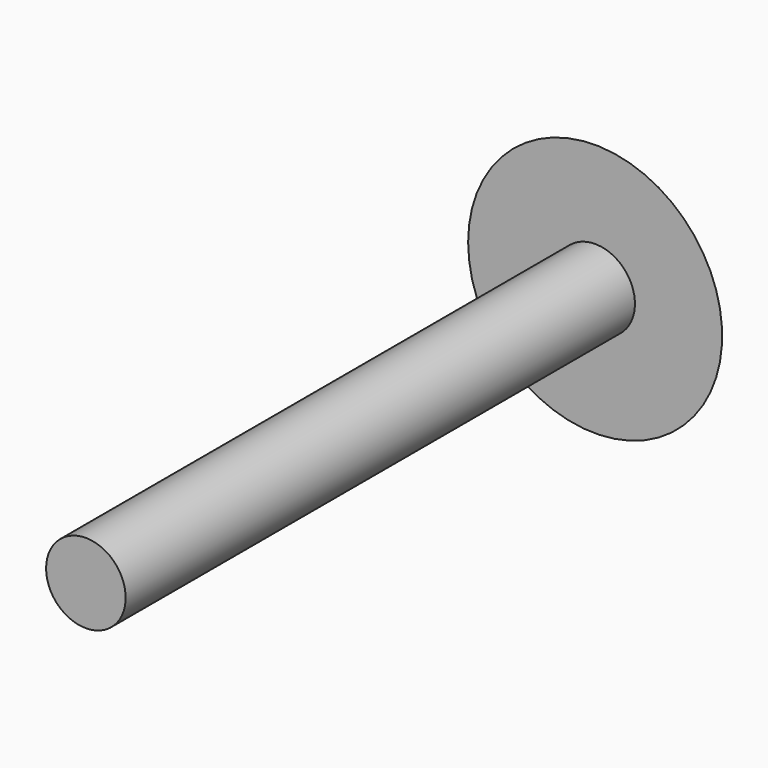
from build123d import *


with BuildPart() as f1:
    # F0 (on Top) → F1 (revolve)
    with BuildSketch(Plane.XY):
        with BuildLine():
            Line((-2.5, 0), (0, 0))
            Line((0, 0), (0, 42.59396))
            ThreePointArc((0, 42.59396), (-4.146553, 41.777763), (-7.980563, 40))
            Line((-7.980563, 40), (-2.5, 40))
            Line((-2.5, 40), (-2.5, 0))
        make_face()
    revolve(axis=Axis((0, 21.29698, 0), (0, -1, 0)))


solid = f1.part
